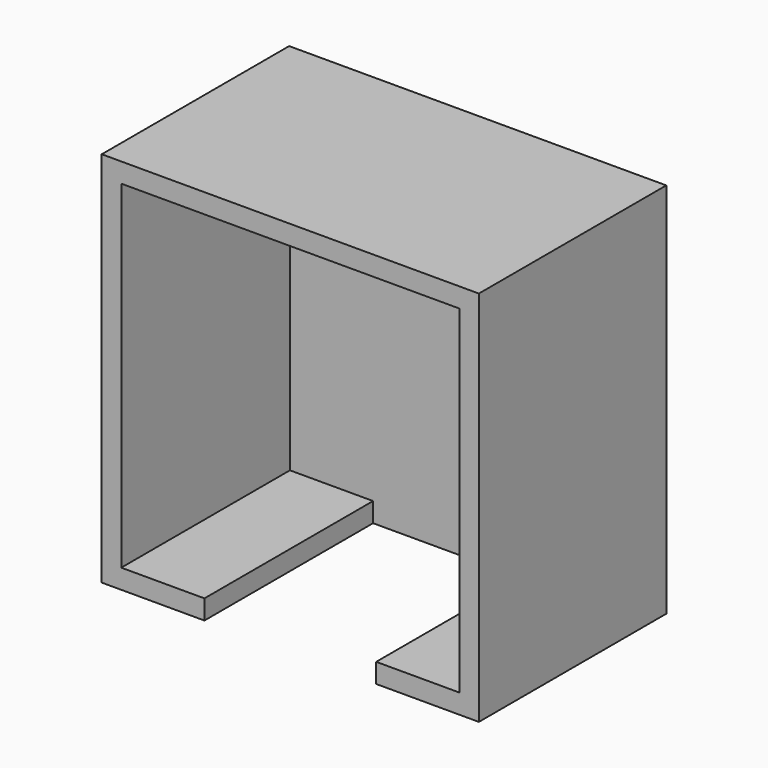
from build123d import *

# Parameters (mm, degrees)
BOX019_W     = 22
BOX019_H     = 27
BOX019_DEPTH = 10
BOX016_W     = 43.3
BOX016_H     = 27
BOX016_DEPTH = 43.3
BOX015_W     = 48.3
BOX015_H     = 30
BOX015_DEPTH = 48.3


with BuildPart() as cube:
    # Box019 → Box019 (new body)
    with BuildSketch(Plane(origin=(47.85, 68.5, -75), x_dir=(1, 0, 0), z_dir=(0, 0, 1))):
        with Locations((11, 13.5)):
            Rectangle(BOX019_W, BOX019_H)
    extrude(amount=BOX019_DEPTH)


with BuildPart() as statictraynegative:
    # Box016 → Box016 (new body)
    with BuildSketch(Plane(origin=(93.5, 0, 2.5), x_dir=(1, 0, 0), z_dir=(0, 0, 1))):
        with Locations((21.65, 13.5)):
            Rectangle(BOX016_W, BOX016_H)
    extrude(amount=BOX016_DEPTH)


with BuildPart() as lineartray:
    # Box015 → Box015 (new body)
    with BuildSketch(Plane(origin=(91, 0, 0), x_dir=(1, 0, 0), z_dir=(0, 0, 1))):
        with Locations((24.15, 15)):
            Rectangle(BOX015_W, BOX015_H)
    extrude(amount=BOX015_DEPTH)

    # Cut017: cut StaticTrayNegative
    add(statictraynegative.part, mode=Mode.SUBTRACT)


with BuildPart() as lineartray_1:
    # Cut017 placement: moved
    add(lineartray.part.moved(Location((-56.3, 68.5, -71))))

    # Cut018: cut Cube
    add(cube.part, mode=Mode.SUBTRACT)


solid = lineartray_1.part
